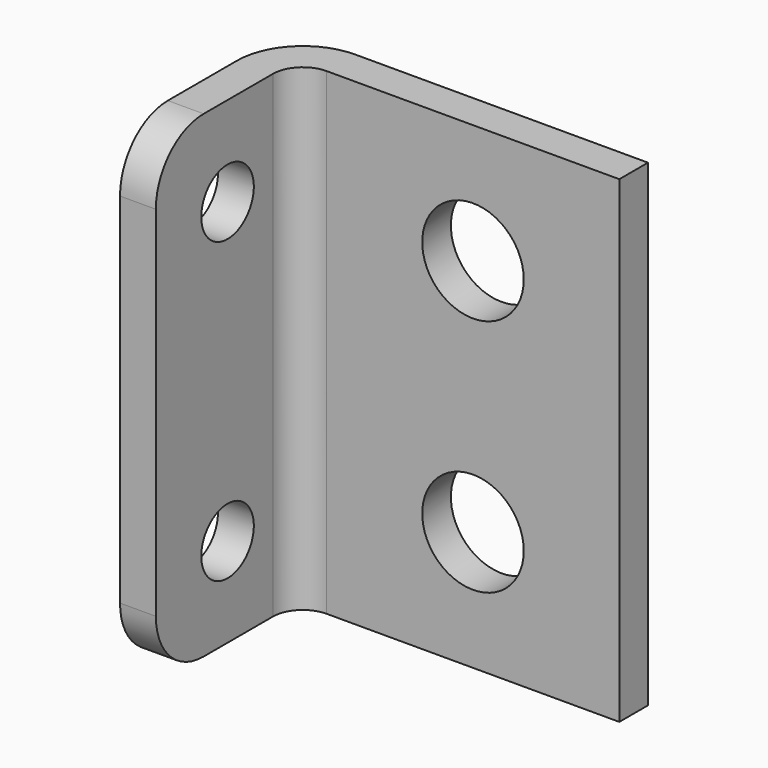
from build123d import *

# Parameters (mm, degrees)
F1_DEPTH = 40
F2_R     = 2.75
F4_DEPTH = 30.001
F3_R     = 4.25
F5_DEPTH = 3.001
F6_R     = 5


with BuildPart() as f1:
    # F0 (on Top) → F1 (new body)
    with BuildSketch(Plane.XY):
        with BuildLine():
            Line((0, 12.25), (0, 0))
            Line((0, 0), (3, 0))
            Line((3, 0), (3, 12.25))
            ThreePointArc((3, 12.25), (3.732233, 14.017767), (5.5, 14.75))
            Line((5.5, 14.75), (30, 14.75))
            Line((30, 14.75), (30, 17.75))
            Line((30, 17.75), (5.5, 17.75))
            ThreePointArc((5.5, 17.75), (1.610913, 16.139087), (0, 12.25))
        make_face()
    extrude(amount=F1_DEPTH)

    # F2 (on face) → F4 (cut, through all)
    with BuildSketch(Plane(origin=(0, 0, 0), x_dir=(0, -1, 0), z_dir=(-1, 0, 0))):
        with Locations((-7.5, 32.499999)):
            Circle(F2_R)
        with Locations((-7.5, 7.499999)):
            Circle(F2_R)
    extrude(amount=-F4_DEPTH, mode=Mode.SUBTRACT)

    # F3 (on face) → F5 (cut, through all)
    with BuildSketch(Plane.XZ.offset(-14.75)):
        with Locations((17.75, 10)):
            Circle(F3_R)
        with Locations((17.75, 30)):
            Circle(F3_R)
    extrude(amount=-F5_DEPTH, mode=Mode.SUBTRACT)

    # F6
    f6_edges = [f1.edges().sort_by_distance(p)[0] for p in [
        (1.5, 0, 40),
        (1.5, 0, 0),
    ]]
    fillet(f6_edges, radius=F6_R)


solid = f1.part
